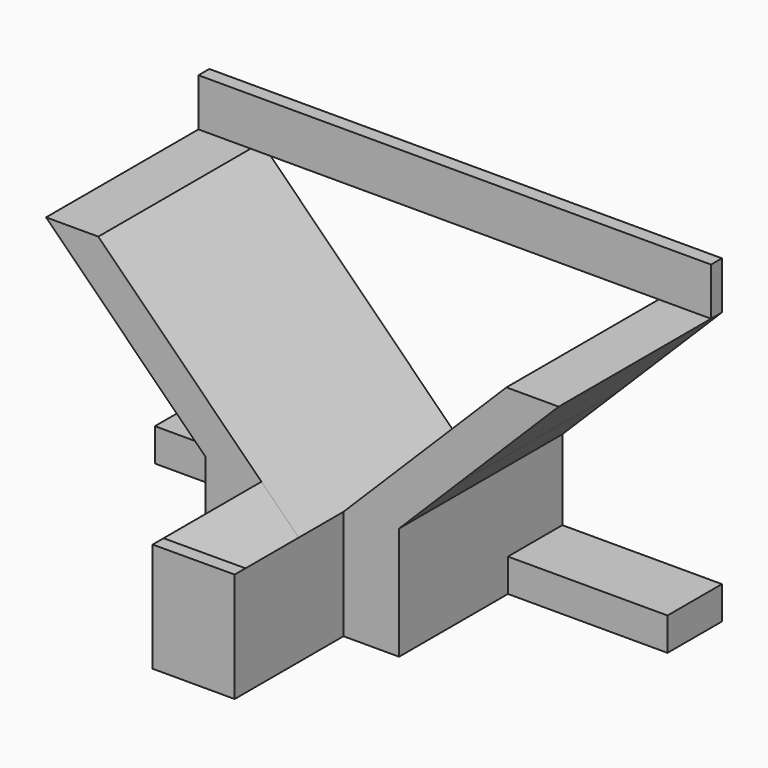
from build123d import *

# Parameters (mm, degrees)
F1_DEPTH  = 15
F3_DEPTH  = 15
F4_DEPTH  = 10
F5_DEPTH  = 15
F6_DEPTH  = 14
F8_DEPTH  = 9
F9_DEPTH  = 11.1596047133
F10_DEPTH = 11.1596047133
F12_DEPTH = 1


with BuildPart() as f1:
    # F0 (on Front) → F1 (new body)
    with BuildSketch(Plane.XZ):
        Polygon((0, 20), (0, 0), (60, 0), (60, 20), (45, 20), (30, 5.0404220819), (15, 20), align=None)
    extrude(amount=-F1_DEPTH)

    # F2 (on face) → F3 (cut, through all)
    with BuildSketch(Plane.XZ):
        Polygon((18.6596047133, 2.4207425304), (22.8898393214, 2.4207425304), (22.8898393214, 8.3013760923), (18.6596047133, 12.520211041), (14.3979182423, 16.770413096), (11.1596047133, 20), (0, 20), (0, 2.4207425304), align=None)
        Polygon((37.1101606786, 2.4207425304), (41.3403952867, 2.4207425304), (60, 2.4207425304), (60, 20), (48.8403952867, 20), (45.6020817577, 16.770413096), (41.3403952867, 12.520211041), (37.1101606786, 8.3013760923), align=None)
    extrude(amount=-F3_DEPTH, mode=Mode.SUBTRACT)

    # F2 (on face) → F4 (cut)
    with BuildSketch(Plane.XZ):
        Polygon((0, 0), (22.8898393214, 0), (22.8898393214, 2.4207425304), (18.6596047133, 2.4207425304), (0, 2.4207425304), align=None)
        Polygon((60, 2.4207425304), (41.3403952867, 2.4207425304), (37.1101606786, 2.4207425304), (37.1101606786, 0), (60, 0), align=None)
    extrude(amount=-F4_DEPTH, mode=Mode.SUBTRACT)

    # F2 (on face) → F5 (join, through all)
    with BuildSketch(Plane.XZ):
        Polygon((45, 20), (48.8403952867, 20), (48.8403952867, 23.5034972429), (15, 23.5034972429), (11.1596047133, 23.5034972429), (11.1596047133, 20), (15, 20), align=None)
    extrude(amount=-F5_DEPTH)

    # F2 (on face) → F6 (cut)
    with BuildSketch(Plane.XZ):
        Polygon((45, 20), (48.8403952867, 20), (48.8403952867, 23.5034972429), (15, 23.5034972429), (11.1596047133, 23.5034972429), (11.1596047133, 20), (15, 20), align=None)
    extrude(amount=-F6_DEPTH, mode=Mode.SUBTRACT)

    # F7 (on face) → F8 (join)
    with BuildSketch(Plane.XZ):
        Polygon((26.9925054163, 0), (29.0075894445, 0), (31.0043748468, 0), (33.0223664641, 0), (33.0223664641, 5.0404220819), (33.0223664641, 8.0546438564), (30, 5.0404220819), (26.9925054163, 8.0398120528), (26.9925054163, 6.030158284), align=None)
    extrude(amount=F8_DEPTH)

    # F9 (cut, through all): a face of the model
    f9_faces = [f1.faces().sort_by_distance(p)[0] for p in [
        (0, 12.5, 1.2103712652),
    ]]
    extrude(f9_faces, amount=-F9_DEPTH, mode=Mode.SUBTRACT)

    # F10 (cut, through all): a face of the model
    f10_faces = [f1.faces().sort_by_distance(p)[0] for p in [
        (60, 12.5, 1.2103712652),
    ]]
    extrude(f10_faces, amount=-F10_DEPTH, mode=Mode.SUBTRACT)

    # F11 (on face) → F12 (join)
    with BuildSketch(Plane.XZ.offset(9)):
        Polygon((33.0223664641, 8.0546438564), (26.9925054163, 8.0398120528), (30, 5.0404220819), align=None)
        Polygon((30, 5.0404220819), (26.9925054163, 8.0398120528), (26.9925054163, 0), (33.0223664641, 0), (33.0223664641, 8.0546438564), align=None)
    extrude(amount=F12_DEPTH)


solid = f1.part
